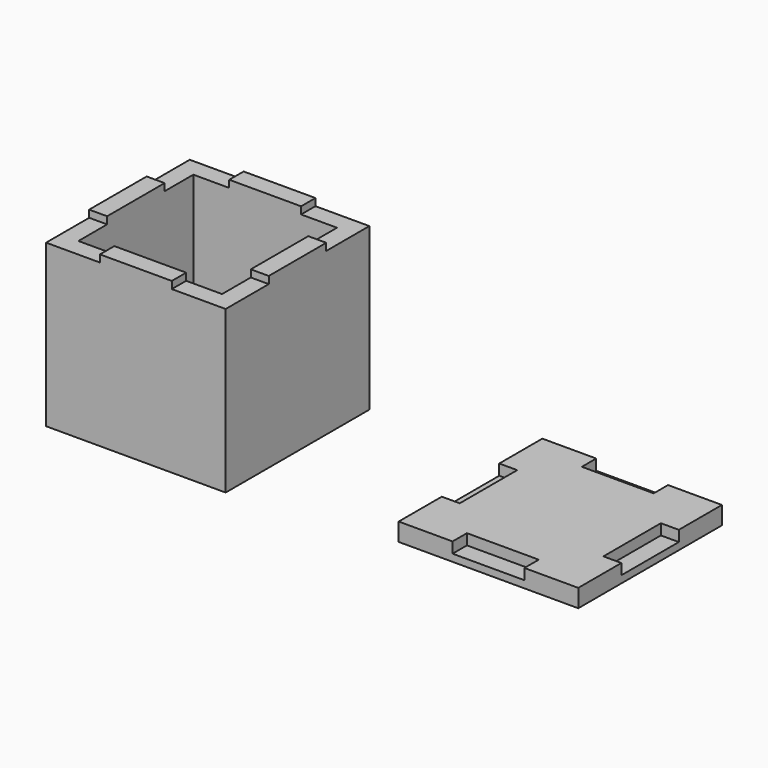
from build123d import *

# Parameters (mm, degrees)
F1_DEPTH = 2.54
F0_W     = 10.16
F0_H     = 2.54
F0_W_2   = 2.54
F0_H_2   = 10.16
F2_DEPTH = 23.876
F3_DEPTH = 22.86
F4_DEPTH = 1.016


with BuildPart() as f1:
    # F0 (on Top) → F1 (new body)
    with BuildSketch(Plane.XY):
        Polygon((-5.08, -10.16), (5.08, -10.16), (10.16, -10.16), (10.16, -5.08), (10.16, 5.08), (10.16, 10.16), (5.08, 10.16), (-5.08, 10.16), (-10.16, 10.16), (-10.16, 5.08), (-10.16, -5.08), (-10.16, -10.16), align=None)
    extrude(amount=F1_DEPTH)

    # F0 (on Top) → F2 (join)
    with BuildSketch(Plane.XY):
        with Locations((0, 11.43)):
            Rectangle(F0_W, F0_H)
        with Locations((11.43, 0)):
            Rectangle(F0_W_2, F0_H_2)
        with Locations((0, -11.43)):
            Rectangle(F0_W, F0_H)
        with Locations((-11.43, 0)):
            Rectangle(F0_W_2, F0_H_2)
    extrude(amount=F2_DEPTH)

    # F0 (on Top) → F3 (join)
    with BuildSketch(Plane.XY):
        Polygon((-12.7, 12.7), (-12.7, 5.08), (-10.16, 5.08), (-10.16, 10.16), (-5.08, 10.16), (-5.08, 12.7), align=None)
        Polygon((10.16, 5.08), (12.7, 5.08), (12.7, 12.7), (5.08, 12.7), (5.08, 10.16), (10.16, 10.16), align=None)
        Polygon((-12.7, -12.7), (-5.08, -12.7), (-5.08, -10.16), (-10.16, -10.16), (-10.16, -5.08), (-12.7, -5.08), align=None)
        Polygon((5.08, -12.7), (12.7, -12.7), (12.7, -5.08), (10.16, -5.08), (10.16, -10.16), (5.08, -10.16), align=None)
    extrude(amount=F3_DEPTH)


with BuildPart() as f1b:
    # F0 (on Top) → F1, piece 2 (new body)
    with BuildSketch(Plane.XY):
        Polygon((42.6179911327, -7.4406659061), (52.7779911327, -7.4406659061), (57.8579911327, -7.4406659061), (57.8579911327, -2.3606659061), (57.8579911327, 7.7993340939), (57.8579911327, 12.8793340939), (52.7779911327, 12.8793340939), (42.6179911327, 12.8793340939), (37.5379911327, 12.8793340939), (37.5379911327, 7.7993340939), (37.5379911327, -2.3606659061), (37.5379911327, -7.4406659061), align=None)
        Polygon((34.9979911327, 15.4193340939), (34.9979911327, 7.7993340939), (37.5379911327, 7.7993340939), (37.5379911327, 12.8793340939), (42.6179911327, 12.8793340939), (42.6179911327, 15.4193340939), align=None)
        Polygon((57.8579911327, 7.7993340939), (60.3979911327, 7.7993340939), (60.3979911327, 15.4193340939), (52.7779911327, 15.4193340939), (52.7779911327, 12.8793340939), (57.8579911327, 12.8793340939), align=None)
        Polygon((52.7779911327, -9.9806659061), (60.3979911327, -9.9806659061), (60.3979911327, -2.3606659061), (57.8579911327, -2.3606659061), (57.8579911327, -7.4406659061), (52.7779911327, -7.4406659061), align=None)
        Polygon((34.9979911327, -9.9806659061), (42.6179911327, -9.9806659061), (42.6179911327, -7.4406659061), (37.5379911327, -7.4406659061), (37.5379911327, -2.3606659061), (34.9979911327, -2.3606659061), align=None)
    extrude(amount=F1_DEPTH)

    # F0 (on Top) → F4 (join)
    with BuildSketch(Plane.XY):
        with Locations((36.2679911327, 2.7193340939)):
            Rectangle(F0_W_2, F0_H_2)
        with Locations((47.6979911327, 14.1493340939)):
            Rectangle(F0_W, F0_H)
        with Locations((59.1279911327, 2.7193340939)):
            Rectangle(F0_W_2, F0_H_2)
        with Locations((47.6979911327, -8.7106659061)):
            Rectangle(F0_W, F0_H)
    extrude(amount=F4_DEPTH)


solid = Compound([f1.part, f1b.part])
